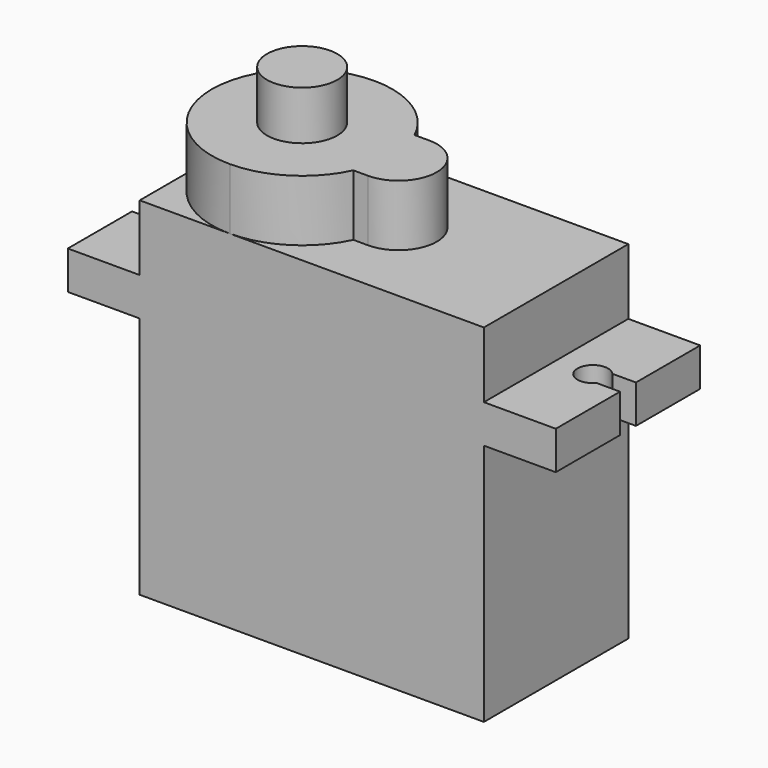
from build123d import *

# Parameters (mm, degrees)
F0_W     = 22.5
F0_H     = 15.9
F0_H_2   = 2.5
F0_W_2   = 4.7
F0_H_3   = 4.3
F1_DEPTH = 5.9
F3_DEPTH = 4
F5_DEPTH = 18.401
F7_DEPTH = 25
F8_R     = 2.3
F9_DEPTH = 3.2


with BuildPart() as f1:
    # F0 (on Front) → F1 (new body, symmetric)
    with BuildSketch(Plane.XZ):
        with Locations((0, -3.4)):
            Rectangle(F0_W, F0_H)
        with Locations((0, 5.8)):
            Rectangle(F0_W, F0_H_2)
        with Locations((13.6, 5.8)):
            Rectangle(F0_W_2, F0_H_2)
        with Locations((-13.6, 5.8)):
            Rectangle(F0_W_2, F0_H_2)
        with Locations((0, 9.2)):
            Rectangle(F0_W, F0_H_3)
    extrude(amount=F1_DEPTH, both=True)

    # F2 (on face) → F3 (join)
    with BuildSketch(Plane.XY.offset(11.35)):
        with BuildLine():
            ThreePointArc((-0.0058443136, -2.5), (0.409362749, -1.2805236137), (0.55, 0))
            ThreePointArc((0.55, 0), (0.409362749, 1.2805236137), (-0.0058443136, 2.5))
            ThreePointArc((-0.0058443136, 2.5), (-2.1829824735, 4.9779513846), (-5.3499999952, 5.9))
            ThreePointArc((-5.3499999952, 5.9), (-9.5219300168, 4.1719300012), (-11.25, -2.68e-08))
            ThreePointArc((-11.25, -2.68e-08), (-9.5219299995, -4.1719300185), (-5.35, -5.9))
            ThreePointArc((-5.35, -5.9), (-2.1829824756, -4.9779513859), (-0.0058443136, -2.5))
        make_face()
        with BuildLine():
            ThreePointArc((-0.0058443136, 2.5), (0.409362749, 1.2805236137), (0.55, 0))
            ThreePointArc((0.55, 0), (0.409362749, -1.2805236137), (-0.0058443136, -2.5))
            Line((-0.0058443136, -2.5), (0.95, -2.5))
            ThreePointArc((0.95, -2.5), (3.45, 0), (0.95, 2.5))
            Line((0.95, 2.5), (-0.0058443136, 2.5))
        make_face()
    extrude(amount=F3_DEPTH)

    # F4 (on face) → F5 (cut, through all)
    with BuildSketch(Plane.XY.offset(7.05)):
        with BuildLine():
            ThreePointArc((14.4099342077, -0.65), (14.5880656181, -0.3464576398), (14.65, 0))
            ThreePointArc((14.65, 0), (14.5880656181, 0.3464576398), (14.4099342077, 0.65))
            ThreePointArc((14.4099342077, 0.65), (12.65, 0), (14.4099342077, -0.65))
        make_face()
        with BuildLine():
            ThreePointArc((14.4099342077, 0.65), (14.5880656181, 0.3464576398), (14.65, 0))
            ThreePointArc((14.65, 0), (14.5880656181, -0.3464576398), (14.4099342077, -0.65))
            Line((14.4099342077, -0.65), (15.95, -0.65))
            Line((15.95, -0.65), (15.95, 0.65))
            Line((15.95, 0.65), (14.4099342077, 0.65))
        make_face()
    extrude(amount=-F5_DEPTH, mode=Mode.SUBTRACT)

    # F6 (on face) → F7 (cut)
    with BuildSketch(Plane.XY.offset(7.05)):
        with BuildLine():
            ThreePointArc((-14.4099342077, -0.65), (-13.3035423602, -0.9380656181), (-12.65, 0))
            ThreePointArc((-12.65, 0), (-13.3035423602, 0.9380656181), (-14.4099342077, 0.65))
            ThreePointArc((-14.4099342077, 0.65), (-14.65, 0), (-14.4099342077, -0.65))
        make_face()
        with BuildLine():
            ThreePointArc((-14.4099342077, -0.65), (-14.65, 0), (-14.4099342077, 0.65))
            Line((-14.4099342077, 0.65), (-15.95, 0.65))
            Line((-15.95, 0.65), (-15.95, -0.65))
            Line((-15.95, -0.65), (-14.4099342077, -0.65))
        make_face()
    extrude(amount=-F7_DEPTH, mode=Mode.SUBTRACT)

    # F8 (on face) → F9 (join)
    with BuildSketch(Plane.XY.offset(15.35)):
        with Locations((-5.35, 0)):
            Circle(F8_R)
    extrude(amount=F9_DEPTH)


solid = f1.part
